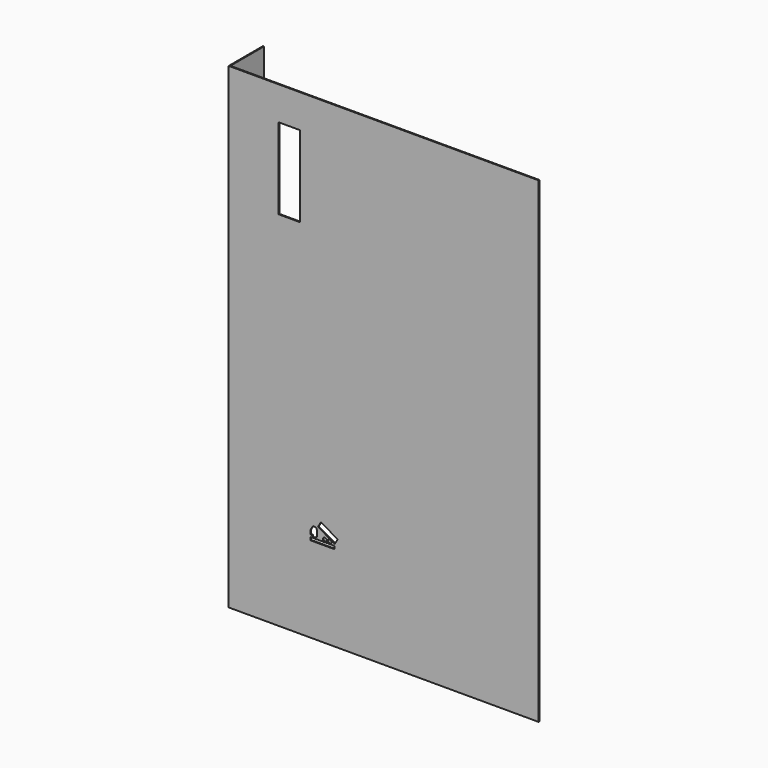
from build123d import *

# Parameters (mm, degrees)
F0_W     = 2
F0_H     = 1000
F1_DEPTH = 90
F0_W_2   = 648
F0_W_3   = 50.688
F0_H_2   = 6.08256
F0_R     = 4.05504
F0_W_4   = 45
F0_H_3   = 170
F2_DEPTH = 2


with BuildPart() as f1:
    # F0 (on Front) → F1 (new body)
    with BuildSketch(Plane.XZ):
        with Locations((-199, 300)):
            Rectangle(F0_W, F0_H)
    extrude(amount=-F1_DEPTH)

    # F0 (on Front) → F2 (join)
    with BuildSketch(Plane.XZ):
        with Locations((126, 300)):
            Rectangle(F0_W_2, F0_H)
        with Locations((-3.208926, -17.236022)):
            Rectangle(F0_W_3, F0_H_2, mode=Mode.SUBTRACT)
        with BuildLine():
            Line((-28.636116, -9.734198), (-28.636116, -1.015862))
            Line((-28.636116, -1.015862), (-23.364564, 7.702474))
            Line((-23.364564, 7.702474), (-19.309524, 7.702474))
            ThreePointArc((-19.309524, 7.702474), (-16.442178, 6.51478), (-15.254484, 3.647434))
            Line((-15.254484, 3.647434), (-15.254484, -9.734198))
            Line((-15.254484, -9.734198), (-16.673748, -9.734198))
            ThreePointArc((-16.673748, -9.734198), (-20.728788, -13.789238), (-24.783828, -9.734198))
            Line((-24.783828, -9.734198), (-28.636116, -9.734198))
        make_face(mode=Mode.SUBTRACT)
        with Locations((1.649359, -9.818369)):
            Circle(F0_R, mode=Mode.SUBTRACT)
        with Locations((11.326316, -9.814243)):
            Circle(F0_R, mode=Mode.SUBTRACT)
        Polygon((22.609892, -10.377738), (-12.615537, 9.709673), (-6.589313, 20.277302), (28.636116, 0.18989), align=None, mode=Mode.SUBTRACT)
        with Locations((-72.5, 645)):
            Rectangle(F0_W_4, F0_H_3, mode=Mode.SUBTRACT)
    extrude(amount=-F2_DEPTH)


solid = f1.part
